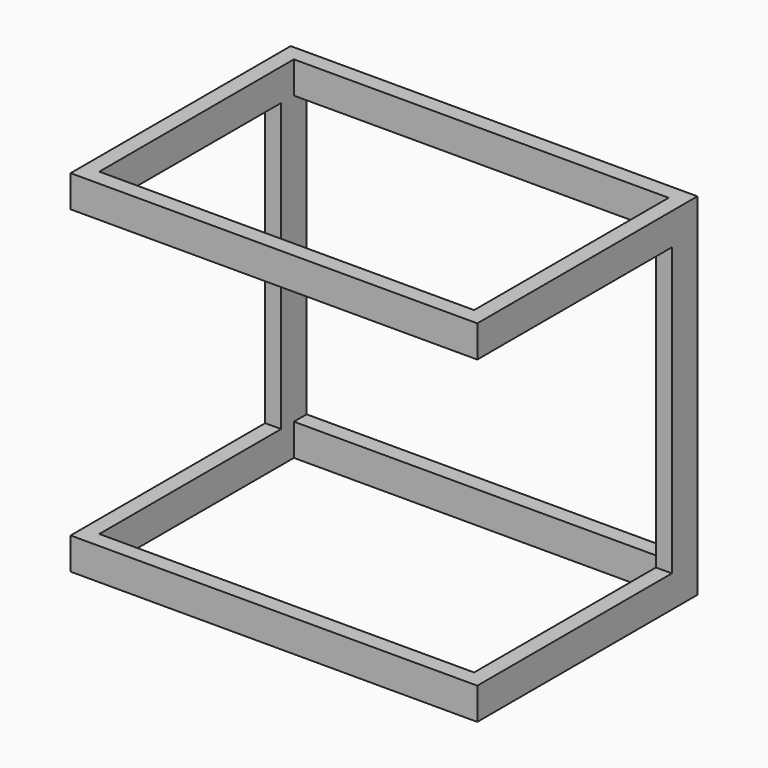
from build123d import *

# Parameters (mm, degrees)
F0_W      = 647.7
F0_H      = 438.15
F0_W_2    = 596.9
F0_H_2    = 387.35
F1_DEPTH  = 50.8
F3_DEPTH  = 508
F4_W      = 25.4
F4_H      = 50.8
F5_DEPTH  = 374.65
F6_W      = 25.4
F6_H      = 50.8
F7_DEPTH  = 387.35
F8_W      = 25.4
F8_H      = 50.8
F9_DEPTH  = 622.3
F10_W     = 25.4
F10_H     = 50.8
F11_DEPTH = 622.3


with BuildPart() as f1:
    # F0 (on Top) → F1 (new body)
    with BuildSketch(Plane.XY):
        Rectangle(F0_W, F0_H)
        Rectangle(F0_W_2, F0_H_2, mode=Mode.SUBTRACT)
    extrude(amount=F1_DEPTH)

    # F2 (on face) → F3 (join)
    with BuildSketch(Plane.XY.offset(50.8)):
        Polygon((-298.45, 219.075), (-323.85, 219.075), (-323.85, 168.275), (-298.45, 168.275), (-298.45, 193.675), align=None)
        Polygon((323.85, 219.075), (298.45, 219.075), (298.45, 193.675), (298.45, 168.275), (323.85, 168.275), align=None)
    extrude(amount=F3_DEPTH)

    # F4 (on face) → F5 (join)
    with BuildSketch(Plane.XZ.offset(-168.275)):
        with Locations((-311.15, 533.4)):
            Rectangle(F4_W, F4_H)
    extrude(amount=F5_DEPTH)

    # F6 (on face) → F7 (join)
    with BuildSketch(Plane.XZ.offset(-168.275)):
        with Locations((311.15, 533.4)):
            Rectangle(F6_W, F6_H)
    extrude(amount=F7_DEPTH)

    # F8 (on face) → F9 (join)
    with BuildSketch(Plane(origin=(298.45, 0, 0), x_dir=(0, -1, 0), z_dir=(-1, 0, 0))):
        with Locations((206.375, 533.4)):
            Rectangle(F8_W, F8_H)
    extrude(amount=F9_DEPTH)

    # F10 (on face) → F11 (join)
    with BuildSketch(Plane(origin=(298.45, 0, 0), x_dir=(0, -1, 0), z_dir=(-1, 0, 0))):
        with Locations((-206.375, 533.4)):
            Rectangle(F10_W, F10_H)
    extrude(amount=F11_DEPTH)


solid = f1.part
